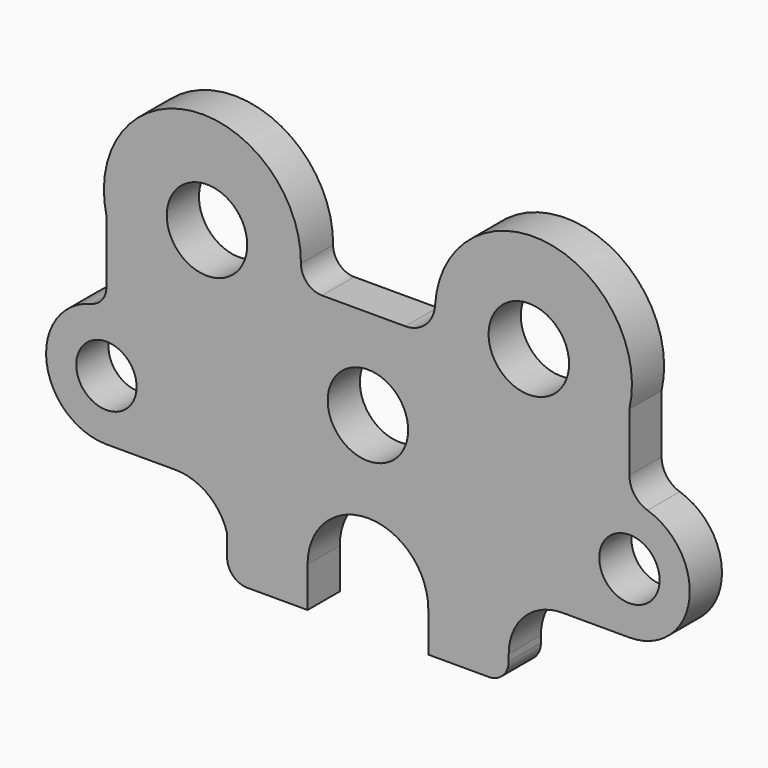
from build123d import *

# Parameters (mm, degrees)
F0_R     = 9.525
F0_R_2   = 12.7
F1_DEPTH = 6.35


with BuildPart() as f1:
    # F0 (on Front) → F1 (new body, symmetric)
    with BuildSketch(Plane.XZ):
        with BuildLine():
            Line((11.692831, 43.492155), (-0.056506, 43.492155))
            Line((-0.056506, 43.492155), (-14.530026, 43.492155))
            ThreePointArc((-14.530026, 43.492155), (-19.266801, 45.466227), (-21.199743, 50.219934))
            ThreePointArc((-21.199743, 50.219934), (-55.688574, 81.407147), (-82.606506, 43.492155))
            Line((-82.606506, 43.492155), (-82.606506, 23.635599))
            ThreePointArc((-82.606506, 23.635599), (-83.93639, 19.747034), (-87.369006, 17.487238))
            ThreePointArc((-87.369006, 17.487238), (-101.504671, -3.358227), (-82.606506, -20.007845))
            Line((-82.606506, -20.007845), (-60.819591, -20.007845))
            ThreePointArc((-60.819591, -20.007845), (-50.576475, -23.457249), (-44.506506, -32.40014))
            Line((-44.506506, -32.40014), (-44.506506, -39.057845))
            ThreePointArc((-44.506506, -39.057845), (-42.646634, -43.547973), (-38.156506, -45.407845))
            Line((-38.156506, -45.407845), (-19.106506, -45.407845))
            Line((-19.106506, -45.407845), (-19.106506, -32.707845))
            ThreePointArc((-19.106506, -32.707845), (-13.52689, -19.237461), (-0.056506, -13.657845))
            ThreePointArc((-0.056506, -13.657845), (13.413878, -19.237461), (18.993494, -32.707845))
            Line((18.993494, -32.707845), (18.993494, -45.407845))
            Line((18.993494, -45.407845), (38.043494, -45.407845))
            ThreePointArc((38.043494, -45.407845), (42.533622, -43.547973), (44.393494, -39.057845))
            Line((44.393494, -39.057845), (44.393494, -36.941178))
            ThreePointArc((44.393494, -36.941178), (49.353153, -24.967504), (61.326828, -20.007845))
            Line((61.326828, -20.007845), (82.493494, -20.007845))
            ThreePointArc((82.493494, -20.007845), (101.32032, -3.86527), (88.240222, 17.204688))
            ThreePointArc((88.240222, 17.204688), (84.083851, 20.187853), (82.493494, 25.050513))
            Line((82.493494, 25.050513), (82.493494, 43.492155))
            ThreePointArc((82.493494, 43.492155), (56.649278, 81.270564), (21.14329, 52.383603))
            ThreePointArc((21.14329, 52.383603), (18.180685, 46.064437), (11.692831, 43.492155))
        make_face()
        with Locations((-82.606506, -0.957845)):
            Circle(F0_R, mode=Mode.SUBTRACT)
        with Locations((-0.056506, 14.917155)):
            Circle(F0_R_2, mode=Mode.SUBTRACT)
        with Locations((82.493494, -0.957845)):
            Circle(F0_R, mode=Mode.SUBTRACT)
        with Locations((-50.856506, 49.842155)):
            Circle(F0_R_2, mode=Mode.SUBTRACT)
        with Locations((50.743494, 49.842155)):
            Circle(F0_R_2, mode=Mode.SUBTRACT)
    extrude(amount=F1_DEPTH, both=True)


solid = f1.part
